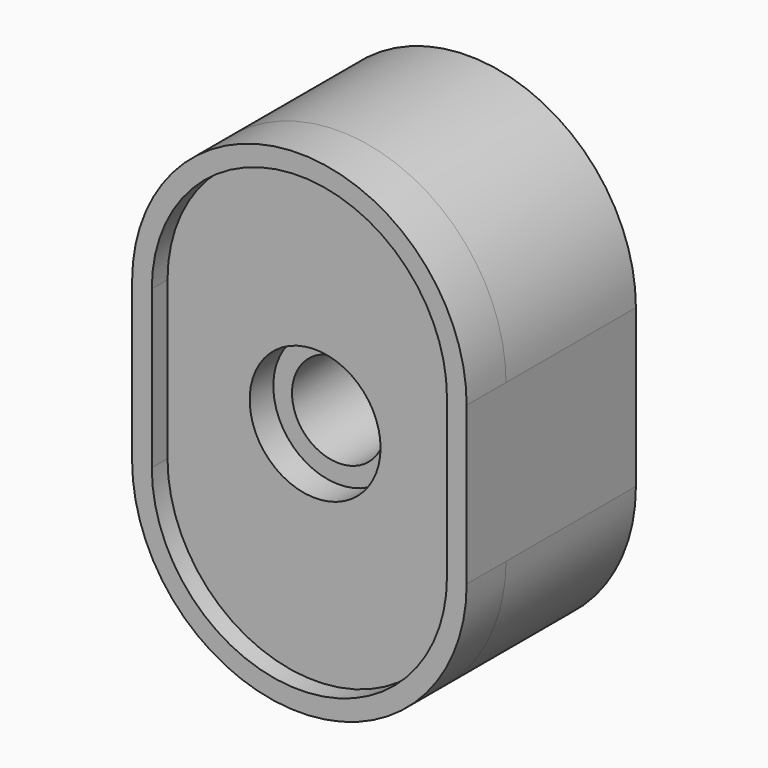
from build123d import *

# Parameters (mm, degrees)
SKETCH_R             = 15.1
PAD_DEPTH            = 16.5
PAD001_DEPTH         = 5.25
POLARPATTERN_COUNT   = 8
PAD002_DEPTH         = 5
SKETCH003_R          = 10.125
PAD003_DEPTH         = 11.5
SKETCH004_R          = 4.75
POCKET_DEPTH         = 16.501
SKETCH006_R          = 6.65
POCKET001_DEPTH      = 5
POCKET002_DEPTH      = 2
BODY_PLACEMENT_ANGLE = 270


with BuildPart() as part:
    # Sketch → Pad (new body)
    with BuildSketch(Plane.XY):
        with BuildLine():
            ThreePointArc((17, 8), (0, 25), (-17, 8))
            Line((-17, 8), (-17, -8))
            ThreePointArc((-17, -8), (0, -25), (17, -8))
            Line((17, -8), (17, 8))
        make_face()
        Circle(SKETCH_R, mode=Mode.SUBTRACT)
    extrude(amount=PAD_DEPTH)

    # Sketch001 → Pad001 (join)
    with BuildSketch(Plane.XY):
        with BuildLine():
            ThreePointArc((1.995609, 14.96755), (0, 15.1), (-1.995609, 14.96755))
            ThreePointArc((-1.995609, 14.96755), (0, 13.1), (1.995609, 14.96755))
        make_face()
    pad001 = extrude(amount=PAD001_DEPTH)

    # PolarPattern: Pad001 ×8 about axis
    polarpattern_axis = Axis((0, 0, 0), (0, 0, 1))
    for i in range(1, POLARPATTERN_COUNT):
        add(pad001.rotate(polarpattern_axis, i * 360 / POLARPATTERN_COUNT))

    # Sketch002 (on Face23 of PolarPattern) → Pad002 (join)
    with BuildSketch(Plane(origin=(0, 0, 0), x_dir=(1, 0, 0), z_dir=(0, 0, -1))):
        with BuildLine():
            ThreePointArc((-17, -8), (0, -25.000054), (17, -8))
            Line((17, -8), (17, 8))
            ThreePointArc((17, 8), (0, 25.000046), (-17, 8))
            Line((-17, -8), (-17, 8))
        make_face()
    extrude(amount=PAD002_DEPTH)

    # Sketch003 (on Face8 of Pad002) → Pad003 (join)
    with BuildSketch(Plane.XY):
        Circle(SKETCH003_R)
    extrude(amount=PAD003_DEPTH)

    # Sketch004 (on Face28 of Pad003) → Pocket (cut, through all)
    with BuildSketch(Plane.XY.offset(11.5)):
        Circle(SKETCH004_R)
    extrude(amount=-POCKET_DEPTH, mode=Mode.SUBTRACT)

    # Sketch006 (on Face8 of Pocket) → Pocket001 (cut)
    with BuildSketch(Plane(origin=(0, 0, -5), x_dir=(1, 0, 0), z_dir=(0, 0, -1))):
        Circle(SKETCH006_R)
    extrude(amount=-POCKET001_DEPTH, mode=Mode.SUBTRACT)

    # Sketch007 (on Face8 of Pocket001) → Pocket002 (cut)
    with BuildSketch(Plane(origin=(0, 0, -5), x_dir=(1, 0, 0), z_dir=(0, 0, -1))):
        with BuildLine():
            ThreePointArc((15, 8), (0, 23.000046), (-15, 8))
            Line((-15, -8), (-15, 8))
            ThreePointArc((-15, -8), (7e-06, -23.000054), (15, -7.999987))
            Line((15, -7.999987), (15, 8))
        make_face()
    extrude(amount=-POCKET002_DEPTH, mode=Mode.SUBTRACT)


with BuildPart() as part_1:
    # Body placement: moved
    add(part.part.moved(Location((-47, 26, 0))).rotate(Axis((-47, 26, 0), (1, 0, 0)), BODY_PLACEMENT_ANGLE))


solid = part_1.part
